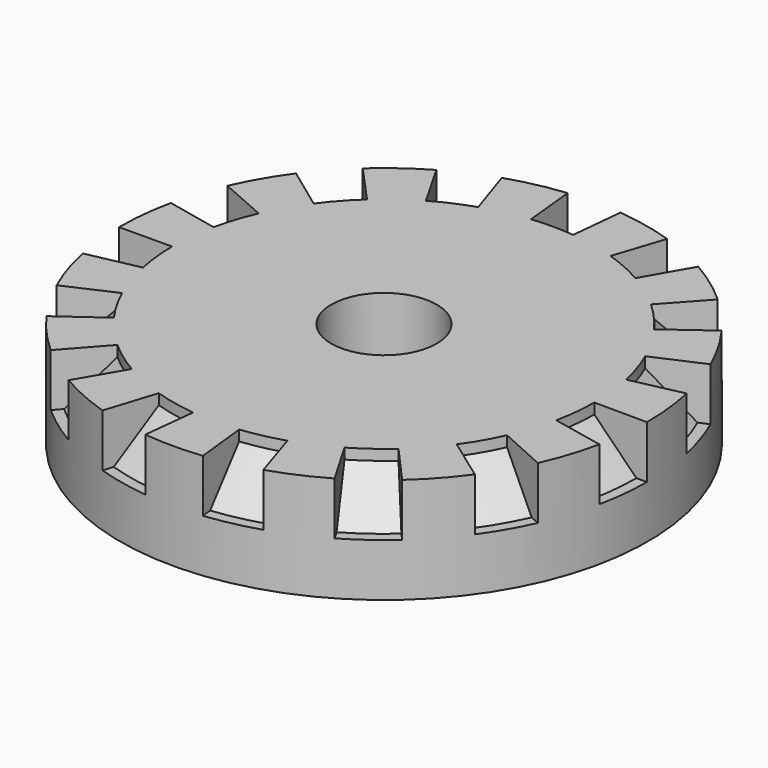
from build123d import *

# Parameters (mm, degrees)
F0_W     = 4
F0_H     = 2
F3_DEPTH = 1
F4_SIZE  = 0.8


with BuildPart() as f1:
    # F0 (on Front) → F1 (revolve)
    with BuildSketch(Plane.XZ):
        with Locations((-3, 1)):
            Rectangle(F0_W, F0_H)
    revolve(axis=Axis((0, 0, 1), (0, 0, 1)))

    # F2 (on face) → F3 (cut)
    with BuildSketch(Plane.XY.offset(2)):
        with BuildLine():
            ThreePointArc((-0.4, 3.9799497484), (-0.2002511002, 3.9949842924), (0, 4))
            Line((0, 4), (0, 4.9749371855))
            Line((0, 4.9749371855), (-0.5, 4.9749371855))
            Line((-0.5, 4.9749371855), (-0.4, 3.9799497484))
        make_face()
        with BuildLine():
            Line((0, 4.9749371855), (0, 4))
            ThreePointArc((0, 4), (0.2002511002, 3.9949842924), (0.4, 3.9799497484))
            Line((0.4, 3.9799497484), (0.5, 4.9749371855))
            Line((0.5, 4.9749371855), (0, 4.9749371855))
        make_face()
        with BuildLine():
            Line((0, 5), (0, 4.9749371855))
            Line((0, 4.9749371855), (0.5, 4.9749371855))
            ThreePointArc((0.5, 4.9749371855), (0.2503138753, 4.9937303656), (0, 5))
        make_face()
        with BuildLine():
            Line((-0.5, 4.9749371855), (0, 4.9749371855))
            Line((0, 4.9749371855), (0, 5))
            ThreePointArc((0, 5), (-0.2503138753, 4.9937303656), (-0.5, 4.9749371855))
        make_face()
        with BuildLine():
            Line((1.5667165215, 4.7481995894), (1.2533732172, 3.7985596716))
            ThreePointArc((1.2533732172, 3.7985596716), (1.6269465723, 3.6541818306), (1.9842095833, 3.4731703571))
            Line((1.9842095833, 3.4731703571), (2.4802619792, 4.3414629464))
            ThreePointArc((2.4802619792, 4.3414629464), (2.0336832154, 4.5677272882), (1.5667165215, 4.7481995894))
        make_face()
        with BuildLine():
            Line((3.3625335233, 3.7004551483), (2.6900268187, 2.9603641186))
            ThreePointArc((2.6900268187, 2.9603641186), (2.9725793019, 2.6765224254), (3.2253313037, 2.3658482583))
            Line((3.2253313037, 2.3658482583), (4.0316641297, 2.9573103228))
            ThreePointArc((4.0316641297, 2.9573103228), (3.7157241274, 3.3456530318), (3.3625335233, 3.7004551483))
        make_face()
        with BuildLine():
            Line((4.5769379313, 2.0128683944), (3.661550345, 1.6102947155))
            ThreePointArc((3.661550345, 1.6102947155), (3.8042260652, 1.2360679775), (3.9087639405, 0.8494495025))
            Line((3.9087639405, 0.8494495025), (4.8859549256, 1.0618118781))
            ThreePointArc((4.8859549256, 1.0618118781), (4.7552825815, 1.5450849719), (4.5769379313, 2.0128683944))
        make_face()
        with BuildLine():
            Line((4.9999481907, -0.0227615912), (3.9999585526, -0.0182092729))
            ThreePointArc((3.9999585526, -0.0182092729), (3.9780875815, -0.4181138531), (3.916335782, -0.8138267892))
            Line((3.916335782, -0.8138267892), (4.8954197275, -1.0172834865))
            ThreePointArc((4.8954197275, -1.0172834865), (4.9726094768, -0.5226423163), (4.9999481907, -0.0227615912))
        make_face()
        with BuildLine():
            Line((4.5584219849, -2.0544558909), (3.6467375879, -1.6435647127))
            ThreePointArc((3.6467375879, -1.6435647127), (3.4641016151, -2), (3.2467375879, -2.3363850357))
            Line((3.2467375879, -2.3363850357), (4.0584219849, -2.9204812947))
            ThreePointArc((4.0584219849, -2.9204812947), (4.3301270189, -2.5), (4.5584219849, -2.0544558909))
        make_face()
        with BuildLine():
            Line((3.3287032059, -3.7309161029), (2.6629625647, -2.9847328823))
            ThreePointArc((2.6629625647, -2.9847328823), (2.3511410092, -3.2360679775), (2.0157489692, -3.4549610842))
            Line((2.0157489692, -3.4549610842), (2.5196862116, -4.3187013552))
            ThreePointArc((2.5196862116, -4.3187013552), (2.9389262615, -4.0450849719), (3.3287032059, -3.7309161029))
        make_face()
        with BuildLine():
            Line((1.5234214023, -4.7622670264), (1.2187371219, -3.8098136211))
            ThreePointArc((1.2187371219, -3.8098136211), (0.8316467633, -3.9125904029), (0.4362190413, -3.9761429738))
            Line((0.4362190413, -3.9761429738), (0.5452738016, -4.9701787172))
            ThreePointArc((0.5452738016, -4.9701787172), (1.0395584541, -4.8907380037), (1.5234214023, -4.7622670264))
        make_face()
        with BuildLine():
            Line((-0.5452738016, -4.9701787172), (-0.4362190413, -3.9761429738))
            ThreePointArc((-0.4362190413, -3.9761429738), (-0.8316467633, -3.9125904029), (-1.2187371219, -3.8098136211))
            Line((-1.2187371219, -3.8098136211), (-1.5234214023, -4.7622670264))
            ThreePointArc((-1.5234214023, -4.7622670264), (-1.0395584541, -4.8907380037), (-0.5452738016, -4.9701787172))
        make_face()
        with BuildLine():
            Line((-2.5196862116, -4.3187013552), (-2.0157489692, -3.4549610842))
            ThreePointArc((-2.0157489692, -3.4549610842), (-2.3511410092, -3.2360679775), (-2.6629625647, -2.9847328823))
            Line((-2.6629625647, -2.9847328823), (-3.3287032059, -3.7309161029))
            ThreePointArc((-3.3287032059, -3.7309161029), (-2.9389262615, -4.0450849719), (-2.5196862116, -4.3187013552))
        make_face()
        with BuildLine():
            Line((-4.0584219849, -2.9204812947), (-3.2467375879, -2.3363850357))
            ThreePointArc((-3.2467375879, -2.3363850357), (-3.4641016151, -2), (-3.6467375879, -1.6435647127))
            Line((-3.6467375879, -1.6435647127), (-4.5584219849, -2.0544558909))
            ThreePointArc((-4.5584219849, -2.0544558909), (-4.3301270189, -2.5), (-4.0584219849, -2.9204812947))
        make_face()
        with BuildLine():
            Line((-4.8954197275, -1.0172834865), (-3.916335782, -0.8138267892))
            ThreePointArc((-3.916335782, -0.8138267892), (-3.9780875815, -0.4181138531), (-3.9999585526, -0.0182092729))
            Line((-3.9999585526, -0.0182092729), (-4.9999481907, -0.0227615912))
            ThreePointArc((-4.9999481907, -0.0227615912), (-4.9726094768, -0.5226423163), (-4.8954197275, -1.0172834865))
        make_face()
        with BuildLine():
            Line((-4.8859549256, 1.0618118781), (-3.9087639405, 0.8494495025))
            ThreePointArc((-3.9087639405, 0.8494495025), (-3.8042260652, 1.2360679775), (-3.661550345, 1.6102947155))
            Line((-3.661550345, 1.6102947155), (-4.5769379313, 2.0128683944))
            ThreePointArc((-4.5769379313, 2.0128683944), (-4.7552825815, 1.5450849719), (-4.8859549256, 1.0618118781))
        make_face()
        with BuildLine():
            Line((-4.0316641297, 2.9573103228), (-3.2253313037, 2.3658482583))
            ThreePointArc((-3.2253313037, 2.3658482583), (-2.9725793019, 2.6765224254), (-2.6900268187, 2.9603641186))
            Line((-2.6900268187, 2.9603641186), (-3.3625335233, 3.7004551483))
            ThreePointArc((-3.3625335233, 3.7004551483), (-3.7157241274, 3.3456530318), (-4.0316641297, 2.9573103228))
        make_face()
        with BuildLine():
            Line((-2.4802619792, 4.3414629464), (-1.9842095833, 3.4731703571))
            ThreePointArc((-1.9842095833, 3.4731703571), (-1.6269465723, 3.6541818306), (-1.2533732172, 3.7985596716))
            Line((-1.2533732172, 3.7985596716), (-1.5667165215, 4.7481995894))
            ThreePointArc((-1.5667165215, 4.7481995894), (-2.0336832154, 4.5677272882), (-2.4802619792, 4.3414629464))
        make_face()
    extrude(amount=-F3_DEPTH, mode=Mode.SUBTRACT)

    # F4
    f4_edges = [f1.edges().sort_by_distance(p)[0] for p in [
        (-3.978088, -0.418114, 1),
        (-3.464102, -2, 1),
        (-2.351141, -3.236068, 1),
        (-0.831647, -3.91259, 1),
        (0.831647, -3.91259, 1),
        (2.351141, -3.236068, 1),
        (3.464102, -2, 1),
        (3.978088, -0.418114, 1),
        (3.804226, 1.236068, 1),
        (2.972579, 2.676522, 1),
        (1.626947, 3.654182, 1),
        (0, 4, 1),
        (-1.626947, 3.654182, 1),
        (-2.972579, 2.676522, 1),
        (-3.804226, 1.236068, 1),
    ]]
    chamfer(f4_edges, length=F4_SIZE)


solid = f1.part
